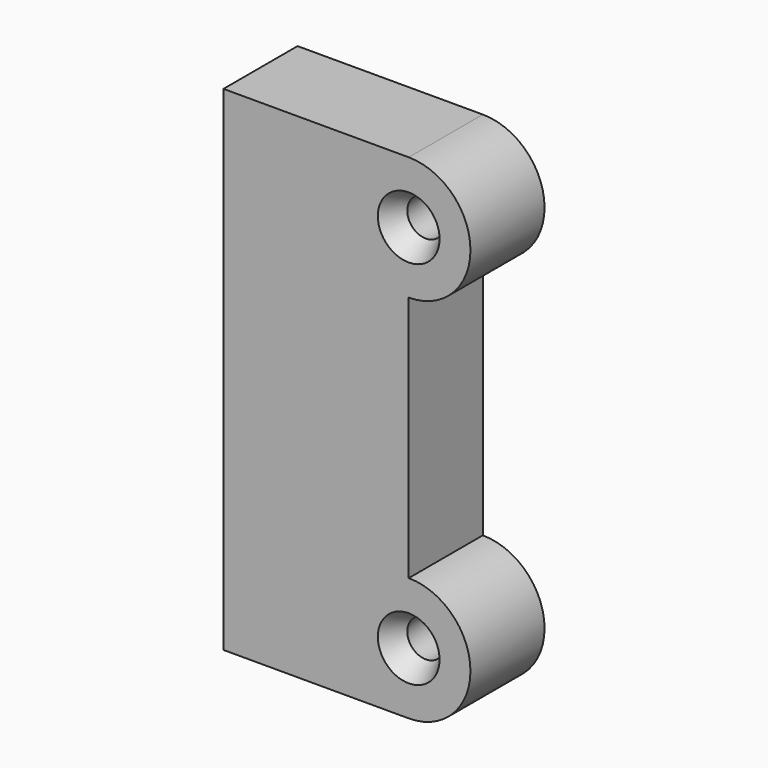
from build123d import *

# Parameters (mm, degrees)
F1_DEPTH       = 9.525
F3_D           = 3.81
F3_CSINK_D     = 6.35
F3_CSINK_ANGLE = 60


with BuildPart() as f1:
    # F0 (on Front) → F1 (new body)
    with BuildSketch(Plane.XZ):
        with BuildLine():
            Line((0, 50.8), (0, 0))
            Line((0, 0), (19.05, 0))
            ThreePointArc((19.05, 0), (25.4, 6.35), (19.05, 12.7))
            Line((19.05, 12.7), (19.05, 38.1))
            ThreePointArc((19.05, 38.1), (25.4, 44.45), (19.05, 50.8))
            Line((19.05, 50.8), (0, 50.8))
        make_face()
    extrude(amount=F1_DEPTH)

    # F3 (through all)
    with Locations(Plane.XZ.offset(9.525)):
        with Locations((19.05, 44.45), (19.05, 6.35)):
            CounterSinkHole(F3_D / 2, F3_CSINK_D / 2, counter_sink_angle=F3_CSINK_ANGLE)


solid = f1.part
